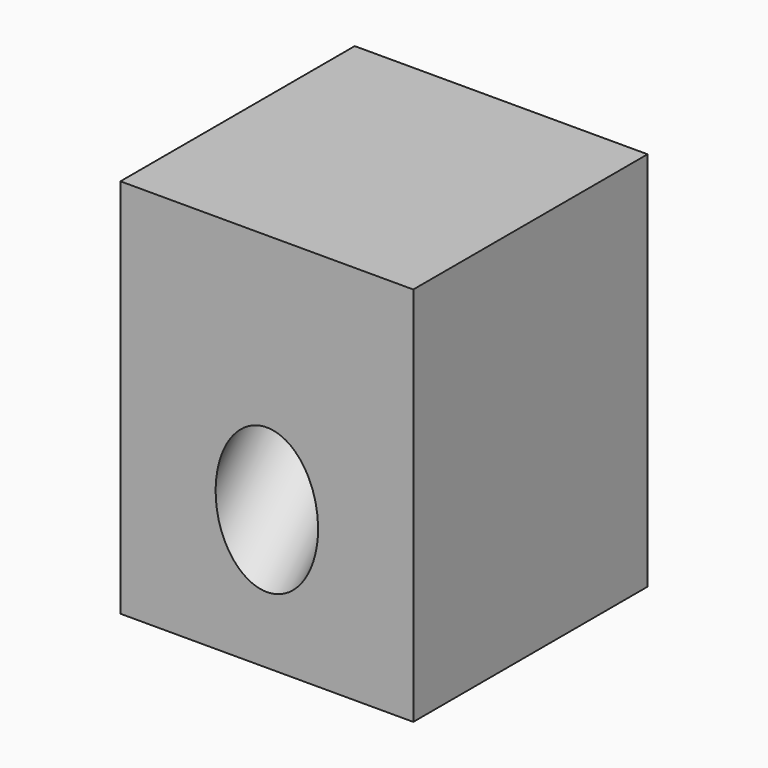
from build123d import *

# Parameters (mm, degrees)
F0_W     = 95.25
F0_H     = 123.825
F1_DEPTH = 95.25
F5_D     = 33.3375
F5_DEPTH = 76.2
F5_START = 48.677356
F5_TIP   = 10.0155954434


with BuildPart() as f1:
    # F0 (on Front) → F1 (new body)
    with BuildSketch(Plane.XZ):
        Rectangle(F0_W, F0_H)
    extrude(amount=F1_DEPTH)

    # F5
    # its depths count from where the whole tool has entered the part; down to there all is cleared
    with Locations(Plane(origin=(0, -78.58125, -78.58125), x_dir=(-1, 0, 0), z_dir=(0, -0.7071067812, -0.7071067812)).offset(-F5_START)):
        with Locations((0, -55.5817782879)):
            Hole(F5_D / 2, depth=F5_DEPTH)
            with Locations((0, 0, -(F5_DEPTH + F5_TIP / 2))):  # 118° drill point
                Cone(0, F5_D / 2, F5_TIP, mode=Mode.SUBTRACT)


solid = f1.part
